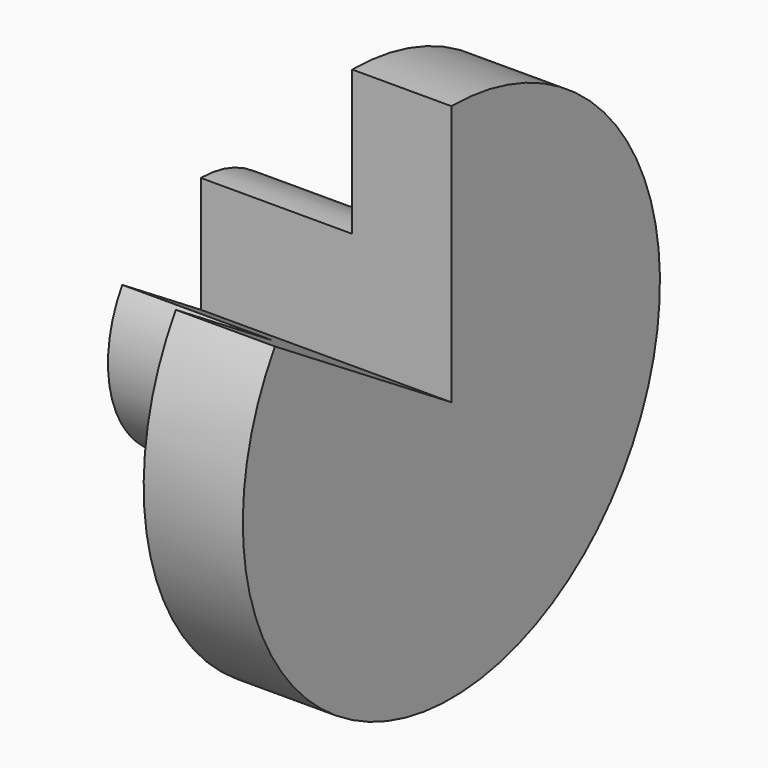
from build123d import *

# Parameters (mm, degrees)
F1_ANGLE = 302.187437


with BuildPart() as f1:
    # F0 (on Front) → F1 (revolve)
    with BuildSketch(Plane.XZ):
        Polygon((-59.469521, 0), (0, 0), (0, 61.875202), (-23.531104, 61.875202), (-23.531104, 27.541725), (-59.469521, 27.541725), align=None)
    revolve(axis=Axis((-29.734761, 0, 0), (-1, 0, 0)), revolution_arc=F1_ANGLE)


solid = f1.part
